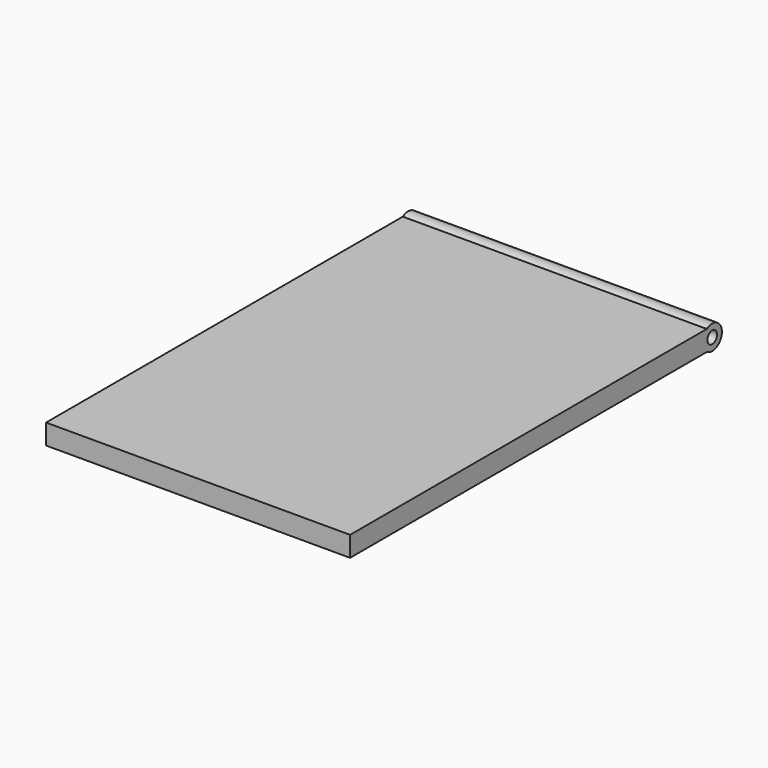
from build123d import *

# Parameters (mm, degrees)
F0_W     = 1500
F0_H     = 2200
F1_DEPTH = 100
F2_R     = 30
F3_DEPTH = 1500


with BuildPart() as f1:
    # F0 (on Top) → F1 (new body)
    with BuildSketch(Plane.XY):
        with Locations((-908.122817, -6.614379)):
            Rectangle(F0_W, F0_H)
    extrude(amount=F1_DEPTH)

    # F2 (on face) → F3 (join, through all)
    with BuildSketch(Plane.YZ.offset(-158.122817)):
        with BuildLine():
            ThreePointArc((1093.385621, 0), (1154.924613, -2.867641), (1186.551869, 50))
            ThreePointArc((1186.551869, 50), (1154.924613, 102.867641), (1093.385621, 100))
            Line((1093.385621, 100), (1093.385621, 0))
        make_face()
        with Locations((1126.551869, 50)):
            Circle(F2_R, mode=Mode.SUBTRACT)
    extrude(amount=-F3_DEPTH)


solid = f1.part
